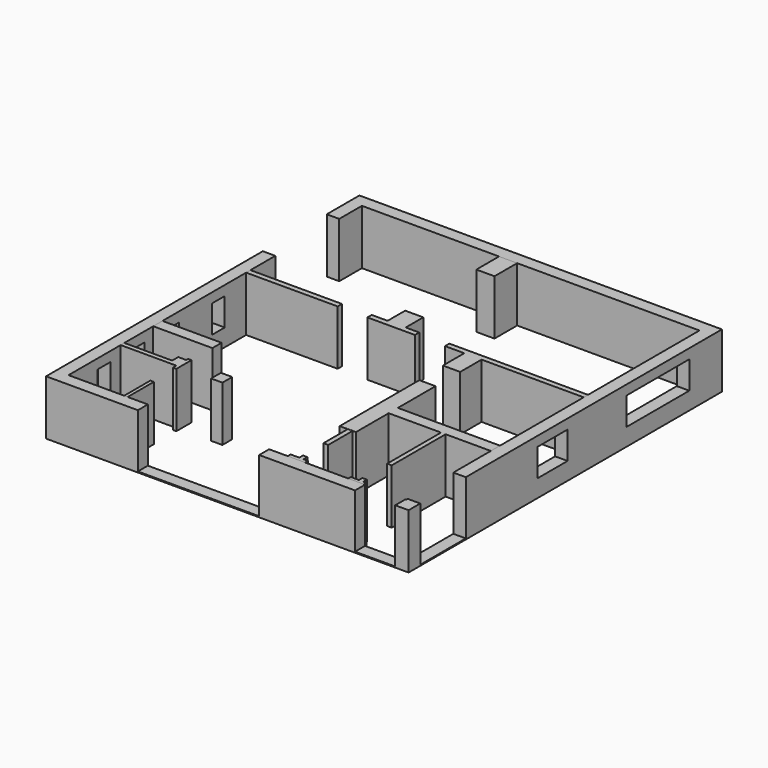
from build123d import *

# Parameters (mm, degrees)
F0_W      = 145.290799439
F0_H      = 156.9714471698
F0_W_2    = 135.290799439
F0_H_2    = 146.9714471698
F1_DEPTH  = 22
F3_DEPTH  = 22
F2_W      = 7.2601954453
F2_H      = 8.8090933859
F2_W_2    = 6.3487580046
F2_H_2    = 2.1618660539
F2_W_3    = 5.4304315709
F2_H_3    = 11.3644477725
F2_W_4    = 6.5120756626
F2_H_4    = 18.8578870147
F2_H_5    = 4.6127215028
F2_W_5    = 1.8315203488
F2_H_6    = 26.9907303154
F2_W_6    = 3.1460821629
F2_H_7    = 3.0654147267
F2_W_7    = 1.3877488673
F2_H_8    = 13.1146934628
F2_W_8    = 4.5174527913
F2_H_9    = 4.9207955599
F2_W_9    = 36.6682809591
F2_W_10   = 6.9186799228
F2_H_10   = 10.7129600365
F2_W_11   = 1.7163297161
F2_H_11   = 1.8706470728
F2_W_12   = 1.9290503114
F2_H_12   = 12.2028924525
F2_H_13   = 1.7747357488
F5_W      = 32.0514254272
F5_H      = 22
F5_W_2    = 6.4619807526
F5_H_2    = 11.0930625647
F6_DEPTH  = 8.3
F7_W      = 15.1057243347
F7_H      = 11.0930625647
F7_W_2    = 31.3963359222
F8_DEPTH  = 9.5
F9_W      = 48.5993335024
F9_H      = 5.9323087335
F9_W_2    = 5.9323124588
F9_H_2    = 0.1140758395
F10_DEPTH = 21.6


with BuildPart() as f1:
    # F0 (on Top) → F1 (new body)
    with BuildSketch(Plane.XY):
        with Locations((-0.0057928264, -7.3606334627)):
            Rectangle(F0_W, F0_H)
        with Locations((-0.0057928264, -7.3606334627)):
            Rectangle(F0_W_2, F0_H_2, mode=Mode.SUBTRACT)
    extrude(amount=F1_DEPTH)

    # F5 (on face) → F6 (cut)
    with BuildSketch(Plane(origin=(-72.6511925459, 0, 0), x_dir=(0, -1, 0), z_dir=(-1, 0, 0))):
        with Locations((-38.7480873615, 11)):
            Rectangle(F5_W, F5_H)
        with Locations((5.8316993527, 12.5465312824)):
            Rectangle(F5_W_2, F5_H_2)
        with Locations((28.8336998783, 12.5465312824)):
            Rectangle(F5_W_2, F5_H_2)
        with Locations((46.0508055985, 12.542069209)):
            Rectangle(F5_W_2, F5_H_2)
        with Locations((63.066707924, 12.555777346)):
            Rectangle(F5_W_2, F5_H_2)
    extrude(amount=-F6_DEPTH, mode=Mode.SUBTRACT)

    # F7 (on face) → F8 (cut)
    with BuildSketch(Plane.YZ.offset(72.6396068931)):
        with Locations((-13.7475095689, 12.5465312824)):
            Rectangle(F7_W, F7_H)
        with Locations((39.0812777914, 12.5465312824)):
            Rectangle(F7_W_2, F7_H)
    extrude(amount=-F8_DEPTH, mode=Mode.SUBTRACT)

    # F9 (on face) → F10 (cut)
    with BuildSketch(Plane.XY.offset(22)):
        with Locations((-11.5599553101, -83.5425294936)):
            Rectangle(F9_W, F9_H)
        Polygon((61.3390468061, -79.8918753862), (51.1856637895, -79.8918753862), (51.1856637895, -87.4213501811), (67.2713592649, -87.4213501811), (67.2713592649, -80.0059512258), (61.3390468061, -80.0059512258), align=None)
        Polygon((61.3390468061, -57.1893677115), (61.3390468061, -79.8918753862), (67.2713592649, -79.8918753862), (67.2713592649, -80.0059512258), (75.4853338003, -80.0059512258), (75.4853338003, -57.1893677115), align=None)
        with Locations((64.3052030355, -79.948913306)):
            Rectangle(F9_W_2, F9_H_2)
    extrude(amount=-F10_DEPTH, mode=Mode.SUBTRACT)


with BuildPart() as f3:
    # F2 (on face) → F3 (new body)
    with BuildSketch(Plane.XY.offset(22)):
        Polygon((-46.0593439639, -33.7934084237), (-67.6511925459, -33.7934084237), (-67.6511925459, -38.4061299264), (-45.348033309, -38.4061299264), (-43.9602844417, -38.4061299264), (-43.9602844417, -33.7934084237), align=None)
    extrude(amount=-F3_DEPTH)


with BuildPart() as f3b:
    # F2 (on face) → F3, piece 2 (new body)
    with BuildSketch(Plane.XY.offset(22)):
        with Locations((-9.0605292935, 14.7004760802)):
            Rectangle(F2_W, F2_H)
        with Locations((-15.8650060184, 9.2149963602)):
            Rectangle(F2_W_2, F2_H_2)
        with Locations((-9.0605292935, 9.2149963602)):
            Rectangle(F2_W, F2_H_2)
        with Locations((-2.7152157854, 9.2149963602)):
            Rectangle(F2_W_3, F2_H_2)
    extrude(amount=-F3_DEPTH)


with BuildPart() as f3c:
    # F2 (on face) → F3, piece 3 (new body)
    with BuildSketch(Plane.XY.offset(22)):
        with Locations((-9.0605292935, 60.442866236)):
            Rectangle(F2_W, F2_H_3)
    extrude(amount=-F3_DEPTH)


with BuildPart() as f3d:
    # F2 (on face) → F3, piece 4 (new body)
    with BuildSketch(Plane.XY.offset(22)):
        with Locations((23.4455168247, -24.3644649163)):
            Rectangle(F2_W_4, F2_H_4)
        with Locations((23.4455168247, -36.0997691751)):
            Rectangle(F2_W_4, F2_H_5)
        Polygon((26.701554656, -38.4061299264), (20.1894789934, -38.4061299264), (20.1894789934, -54.8219867051), (23.4455168247, -54.8219867051), (23.4455168247, -54.7385849059), (25.3745671362, -54.7385849059), (25.3745671362, -54.8219867051), (26.701554656, -54.8219867051), align=None)
        Polygon((67.6396068931, -33.7934084237), (26.701554656, -33.7934084237), (26.701554656, -38.4061299264), (47.6919971406, -38.4061299264), (49.5235174894, -38.4061299264), (67.6396068931, -38.4061299264), align=None)
        with Locations((48.607757315, -51.9014950842)):
            Rectangle(F2_W_5, F2_H_6)
    extrude(amount=-F3_DEPTH)


with BuildPart() as f3e:
    # F2 (on face) → F3, piece 5 (new body)
    with BuildSketch(Plane.XY.offset(22)):
        with Locations((-46.9210743904, -51.3504967093)):
            Rectangle(F2_W_6, F2_H_7)
        Polygon((-43.9602844417, -48.8392449915), (-45.348033309, -48.8392449915), (-45.348033309, -49.817789346), (-45.348033309, -52.8832040727), (-45.348033309, -54.7385849059), (-45.348033309, -56.4711987972), (-43.9602844417, -56.4711987972), align=None)
        Polygon((-48.4941154718, -52.8832040727), (-67.6511925459, -52.8832040727), (-67.6511925459, -54.7385849059), (-45.348033309, -54.7385849059), (-45.348033309, -52.8832040727), align=None)
    extrude(amount=-F3_DEPTH)


with BuildPart() as f3f:
    # F2 (on face) → F3, piece 6 (new body)
    with BuildSketch(Plane.XY.offset(22)):
        with Locations((-44.6541588753, -74.2890103161)):
            Rectangle(F2_W_7, F2_H_8)
    extrude(amount=-F3_DEPTH)


with BuildPart() as f3g:
    # F2 (on face) → F3, piece 7 (new body)
    with BuildSketch(Plane.XY.offset(22)):
        with Locations((-29.1335983202, -52.2781871259)):
            Rectangle(F2_W_8, F2_H_9)
    extrude(amount=-F3_DEPTH)


with BuildPart() as f3h:
    # F2 (on face) → F3, piece 8 (new body)
    with BuildSketch(Plane.XY.offset(22)):
        with Locations((-49.3170520663, 9.2149963602)):
            Rectangle(F2_W_9, F2_H_2)
    extrude(amount=-F3_DEPTH)


with BuildPart() as f3i:
    # F2 (on face) → F3, piece 9 (new body)
    with BuildSketch(Plane.XY.offset(22)):
        Polygon((26.701554656, 8.1340633333), (67.6396068931, 8.1340633333), (67.6396068931, 10.2959293872), (12.0425643399, 10.2959293872), (12.0425643399, 8.1340633333), (19.7828747332, 8.1340633333), align=None)
        with Locations((23.2422146946, 2.777583315)):
            Rectangle(F2_W_10, F2_H_10)
    extrude(amount=-F3_DEPTH)


with BuildPart() as f3j:
    # F2 (on face) → F3, piece 10 (new body)
    with BuildSketch(Plane.XY.offset(22)):
        Polygon((20.1894789934, -79.3837159872), (20.1894789934, -80.8463570476), (27.1269958466, -80.8463570476), (27.1269958466, -79.3837159872), (25.3745671362, -79.3837159872), (23.65823742, -79.3837159872), align=None)
        with Locations((24.5164022781, -78.4483924508)):
            Rectangle(F2_W_11, F2_H_11)
    extrude(amount=-F3_DEPTH)


with BuildPart() as f3k:
    # F2 (on face) → F3, piece 11 (new body)
    with BuildSketch(Plane.XY.offset(22)):
        with Locations((24.4100419804, -60.9234329313)):
            Rectangle(F2_W_12, F2_H_12)
    extrude(amount=-F3_DEPTH)


with BuildPart() as f3l:
    # F2 (on face) → F3, piece 12 (new body)
    with BuildSketch(Plane.XY.offset(22)):
        with Locations((48.607757315, -78.6882378161)):
            Rectangle(F2_W_5, F2_H_13)
        Polygon((44.4364733994, -80.8463570476), (50.767980516, -80.8463570476), (50.767980516, -79.5756056905), (49.5235174894, -79.5756056905), (47.6919971406, -79.5756056905), (44.4364733994, -79.5756056905), align=None)
    extrude(amount=-F3_DEPTH)


solid = Compound([f1.part, f3.part, f3b.part, f3c.part, f3d.part, f3e.part, f3f.part, f3g.part, f3h.part, f3i.part, f3j.part, f3k.part, f3l.part])
